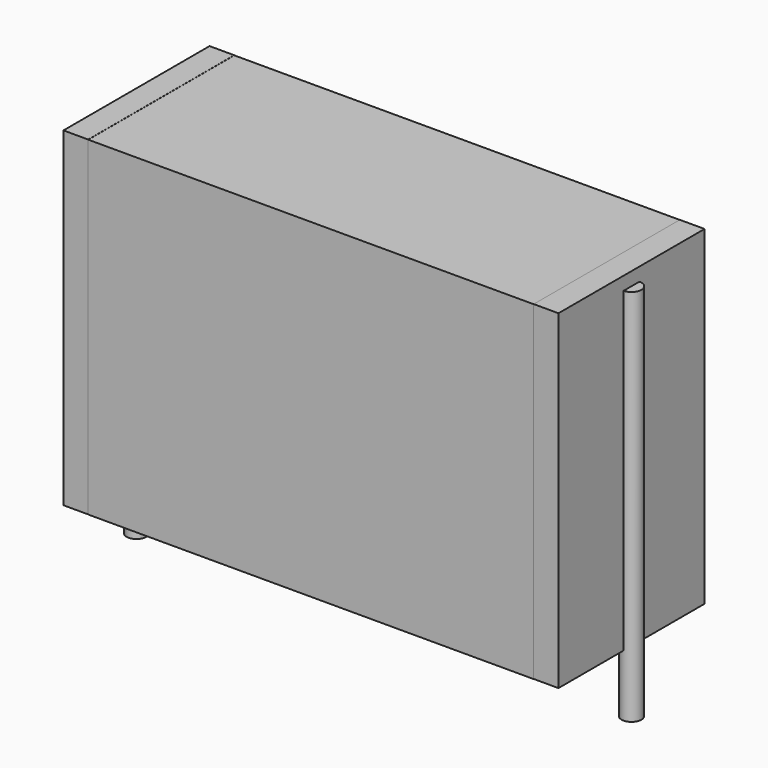
from build123d import *

# Parameters (mm, degrees)
SKETCH_W          = 20.25
SKETCH_H          = 8.3
PAD_DEPTH         = 15
SKETCH001_R       = 0.45
PAD001_DEPTH      = 14
PAD001_DEPTH_BACK = 3.2
SKETCH002_W       = 1.125
SKETCH002_H       = 8.3
PAD002_DEPTH      = 15


with BuildPart() as pad:
    # Sketch → Pad (new body)
    with BuildSketch(Plane.XY.offset(0.1)):
        with Locations((11.25, 0)):
            Rectangle(SKETCH_W, SKETCH_H)
    extrude(amount=PAD_DEPTH)


with BuildPart() as pad001:
    # Sketch001 → Pad001 (new body, two sides)
    with BuildSketch(Plane.XY.offset(0.5)) as pad001_sk:
        Circle(SKETCH001_R)
        with Locations((22.5, 0)):
            Circle(SKETCH001_R)
    extrude(amount=PAD001_DEPTH)
    extrude(pad001_sk.sketch, amount=-PAD001_DEPTH_BACK)


with BuildPart() as pad002:
    # Sketch002 → Pad002 (new body)
    with BuildSketch(Plane.XY.offset(0.105)):
        with Locations((0.5625, 0)):
            Rectangle(SKETCH002_W, SKETCH002_H)
        with Locations((21.9375, 0)):
            Rectangle(SKETCH002_W, SKETCH002_H)
    extrude(amount=PAD002_DEPTH)


solid = Compound([pad.part, pad001.part, pad002.part])
